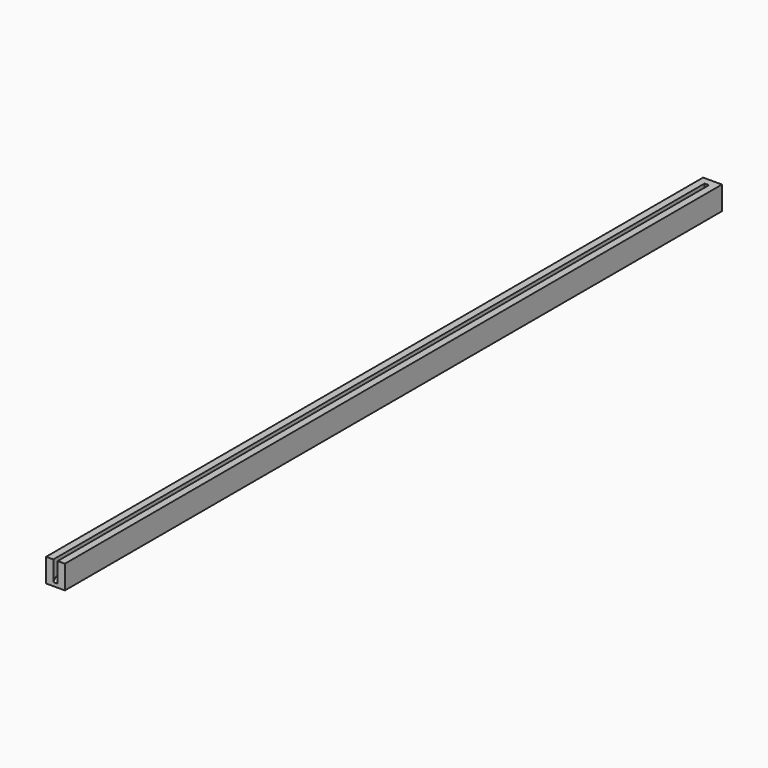
from build123d import *

# Parameters (mm, degrees)
F0_W     = 5.2
F0_H     = 226.71
F1_DEPTH = 2
F3_DEPTH = 4.5
F4_W     = 1.2
F4_H     = 2.1
F5_DEPTH = 25
F6_SIZE  = 1


with BuildPart() as f1:
    # F0 (on Top) → F1 (new body)
    with BuildSketch(Plane.XY):
        with Locations((2.6, 113.355)):
            Rectangle(F0_W, F0_H)
    extrude(amount=F1_DEPTH)

    # F2 (on face) → F3 (join)
    with BuildSketch(Plane.XY.offset(2)):
        Polygon((0, 226.71), (0, 0), (2, 0), (2, 224.71), (3.2, 224.71), (3.2, 0), (5.2, 0), (5.2, 226.71), align=None)
    extrude(amount=F3_DEPTH)

    # F4 (on face) → F5 (cut)
    with BuildSketch(Plane.XY.offset(2)):
        with Locations((2.6, 2.95)):
            Rectangle(F4_W, F4_H)
    extrude(amount=-F5_DEPTH, mode=Mode.SUBTRACT)

    # F6
    f6_edges = [f1.edges().sort_by_distance(p)[0] for p in [
        (2.6, 0, 2),
    ]]
    chamfer(f6_edges, length=F6_SIZE)


solid = f1.part
